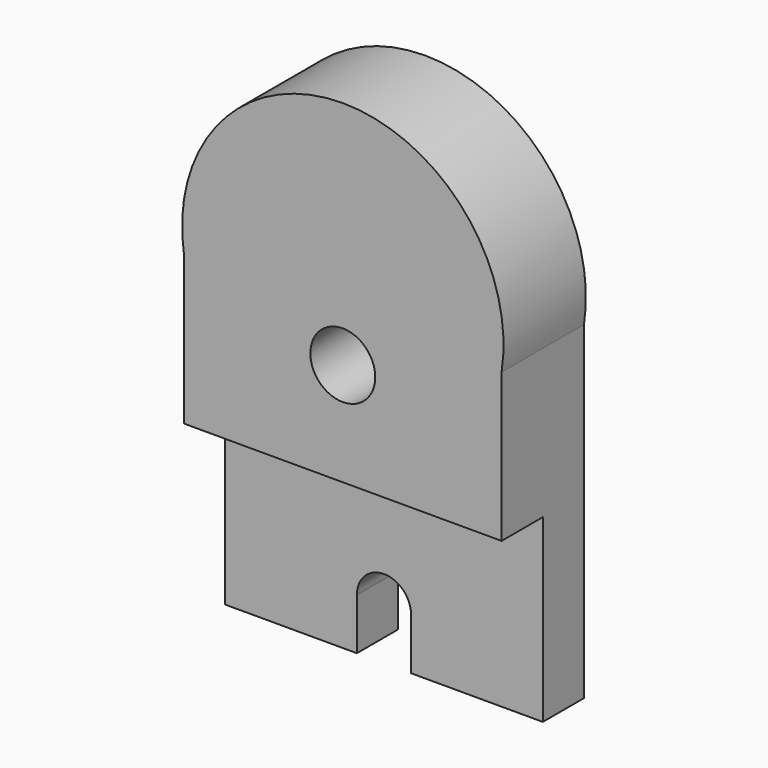
from build123d import *

# Parameters (mm, degrees)
F1_DEPTH = 12.7
F3_DEPTH = 12.7
F5_D     = 16.002


with BuildPart() as f1:
    # F0 (on Front) → F1 (new body)
    with BuildSketch(Plane.XZ):
        with BuildLine():
            Line((-47.357348, 25.225591), (-47.357348, -19.035261))
            Line((-47.357348, -19.035261), (-47.357348, -55.867718))
            Line((-47.357348, -55.867718), (-14.88383, -55.867718))
            Line((-14.88383, -55.867718), (-14.88383, -43.249417))
            ThreePointArc((-14.88383, -43.249417), (-14.884202, -43.178936), (-14.88383, -43.108455))
            ThreePointArc((-14.88383, -43.108455), (-8.260409, -36.49587), (-1.520228, -42.989401))
            ThreePointArc((-1.520228, -42.989401), (-1.51754, -43.178936), (-1.520228, -43.368471))
            Line((-1.520228, -43.368471), (-1.520228, -55.867718))
            Line((-1.520228, -55.867718), (30.955606, -55.867718))
            Line((30.955606, -55.867718), (30.955606, 25.225591))
            ThreePointArc((30.955606, 25.225591), (-8.200871, 70.891809), (-47.357348, 25.225591))
        make_face()
    extrude(amount=F1_DEPTH)

    # F2 (on face) → F3 (join)
    with BuildSketch(Plane.XZ.offset(12.7)):
        with BuildLine():
            Line((-47.357348, 25.225591), (-47.357348, -11.417718))
            Line((-47.357348, -11.417718), (30.955606, -11.417718))
            Line((30.955606, -11.417718), (30.955606, 25.225591))
            ThreePointArc((30.955606, 25.225591), (-8.200871, 70.891809), (-47.357348, 25.225591))
        make_face()
    extrude(amount=F3_DEPTH)

    # F5 (through all)
    with Locations(Plane.XZ.offset(25.4)):
        with Locations((-8.200871, 13.982282)):
            Hole(F5_D / 2)


solid = f1.part
